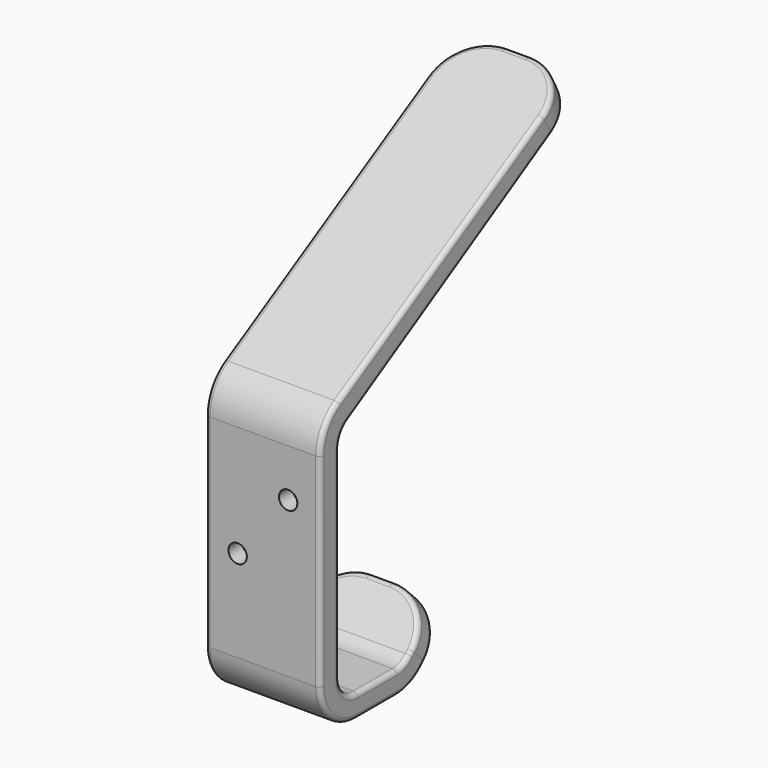
from build123d import *

# Parameters (mm, degrees)
F1_DEPTH       = 25
F2_R           = 5
F3_R           = 10
F4_R           = 10
F5_R           = 10
F6_R           = 1
F8_D           = 4
F8_CSINK_D     = 7
F8_CSINK_ANGLE = 90
F9_R           = 1


with BuildPart() as f1:
    # F0 (on Right) → F1 (new body)
    with BuildSketch(Plane.YZ):
        Polygon((-25, 0), (0, 0), (10.6066017178, 10.6066017178), (7.0710678119, 14.1421356237), (-2.0710678119, 5), (-19.7640469252, 5), (-19.7640469252, 6.6023203544), (-19.7640469252, 56.6721200803), (-15.6440361776, 59.0868194482), (46.6402980765, 95.5910792091), (44.2820323028, 100), (-25, 60), align=None)
    extrude(amount=F1_DEPTH)

    # F2
    f2_edges = [f1.edges().sort_by_distance(p)[0] for p in [
        (12.5, -19.764047, 56.67212),
        (12.5, -19.764047, 5),
        (12.5, -2.071068, 5),
    ]]
    fillet(f2_edges, radius=F2_R)

    # F3
    f3_edges = [f1.edges().sort_by_distance(p)[0] for p in [
        (12.5, -25, 60),
        (12.5, -25, 0),
        (12.5, 0, 0),
    ]]
    fillet(f3_edges, radius=F3_R)

    # F4
    f4_edges = [f1.edges().sort_by_distance(p)[0] for p in [
        (25, 8.838835, 12.374369),
        (0, 8.838835, 12.374369),
    ]]
    fillet(f4_edges, radius=F4_R)

    # F5
    f5_edges = [f1.edges().sort_by_distance(p)[0] for p in [
        (25, 45.461165, 97.79554),
        (0, 45.461165, 97.79554),
    ]]
    fillet(f5_edges, radius=F5_R)

    # F6
    f6_edges = [f1.edges().sort_by_distance(p)[0] for p in [
        (25, -19.764047, 31.903548),
        (25, 10.357028, 74.325798),
        (25, -19.102314, 56.292944),
        (22.07241, 44.110307, 94.108276),
        (12.5, 46.640298, 95.591079),
        (2.92759, 44.110307, 94.108276),
        (0, 10.357028, 74.325798),
        (0, -19.102314, 56.292944),
        (0, -19.764047, 31.903548),
    ]]
    fillet(f6_edges, radius=F6_R)

    # F8 (through all)
    with Locations(Plane(origin=(0, -19.7640469252, 0), x_dir=(-1, 0, 0), z_dir=(0, 1, 0))):
        with Locations((-18, 43.8070958611), (-7, 30)):
            CounterSinkHole(F8_D / 2, F8_CSINK_D / 2, counter_sink_angle=F8_CSINK_ANGLE)

    # F9
    f9_edges = [f1.edges().sort_by_distance(p)[0] for p in [
        (22.071068, 8.535534, 8.535534),
        (12.5, 10.606602, 10.606602),
        (2.928932, 8.535534, 8.535534),
        (0, -0.315301, 0.761205),
        (0, 3.232233, 3.232233),
        (0, -9.571068, 0),
        (25, -0.315301, 0.761205),
        (25, 3.232233, 3.232233),
        (25, -9.571068, 0),
        (25, -22.071068, 2.928932),
        (0, -22.071068, 2.928932),
        (25, -25, 32.113249),
        (0, -25, 32.113249),
        (25, -23.660254, 59.226497),
        (25, 7.808611, 78.94206),
        (0, -23.660254, 59.226497),
        (0, 7.808611, 78.94206),
        (22.071998, 41.743362, 98.534298),
        (2.928002, 41.743362, 98.534298),
        (12.5, 44.282032, 100),
    ]]
    fillet(f9_edges, radius=F9_R)


solid = f1.part
